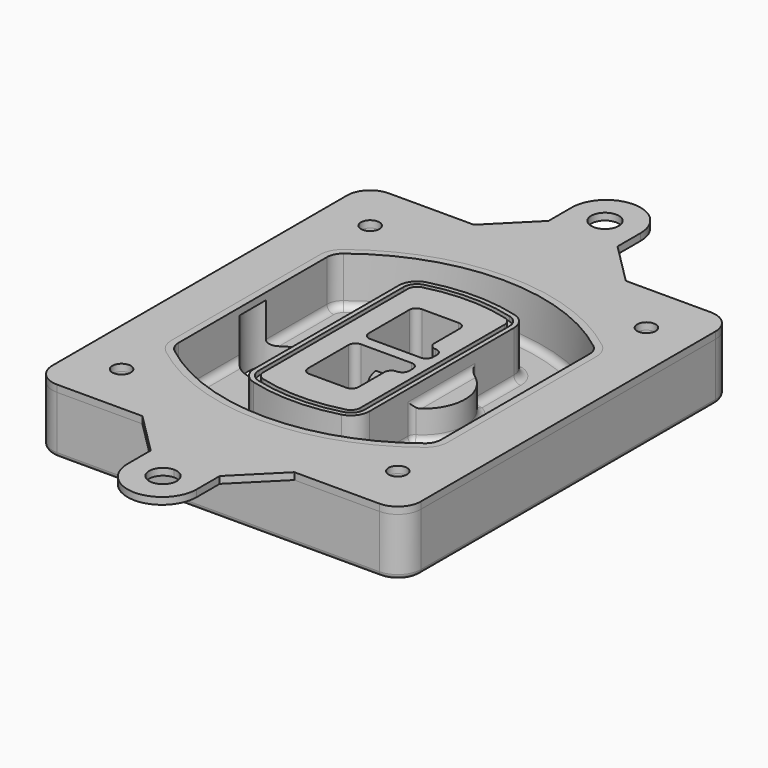
from build123d import *

# Parameters (mm, degrees)
F0_R      = 4
F1_DEPTH  = 25
F2_DEPTH  = 3
F3_DEPTH  = 18
F5_DEPTH  = 21
F6_DEPTH  = 2
F8_DEPTH  = 20
F9_DEPTH  = 16
F10_DEPTH = 25
F7_R      = 6
F7_R_2    = 4
F11_DEPTH = 6
F13_DEPTH = 9
F14_R     = 3
F15_R     = 2
F16_R     = 4
F17_DEPTH = 3


with BuildPart() as f1:
    # F0 (on Top) → F1 (new body)
    with BuildSketch(Plane.XY):
        with BuildLine():
            ThreePointArc((-80, -80), (-77.0710678119, -87.0710678119), (-70, -90))
            Line((-70, -90), (70, -90))
            ThreePointArc((70, -90), (77.0710678119, -87.0710678119), (80, -80))
            Line((80, -80), (80, 80))
            ThreePointArc((80, 80), (77.0710678119, 87.0710678119), (70, 90))
            Line((70, 90), (-70, 90))
            ThreePointArc((-70, 90), (-77.0710678119, 87.0710678119), (-80, 80))
            Line((-80, 80), (-80, -80))
        make_face()
        with Locations((-60, -67.5)):
            Circle(F0_R, mode=Mode.SUBTRACT)
        with Locations((60, -67.5)):
            Circle(F0_R, mode=Mode.SUBTRACT)
        with Locations((-60, 67.5)):
            Circle(F0_R, mode=Mode.SUBTRACT)
        with BuildLine():
            ThreePointArc((-64, 40.2934422872), (-62.5820384798, 46.4328484224), (-58.6153846154, 51.3286200352))
            ThreePointArc((-58.6153846154, 51.3286200352), (0, 71.5), (58.6153846154, 51.3286200352))
            ThreePointArc((58.6153846154, 51.3286200352), (62.5820384798, 46.4328484224), (64, 40.2934422872))
            Line((64, 40.2934422872), (64, -40.2934422872))
            ThreePointArc((64, -40.2934422872), (62.5820384798, -46.4328484224), (58.6153846154, -51.3286200352))
            ThreePointArc((58.6153846154, -51.3286200352), (0, -71.5), (-58.6153846154, -51.3286200352))
            ThreePointArc((-58.6153846154, -51.3286200352), (-62.5820384798, -46.4328484224), (-64, -40.2934422872))
            Line((-64, -40.2934422872), (-64, 40.2934422872))
        make_face(mode=Mode.SUBTRACT)
        with Locations((60, 67.5)):
            Circle(F0_R, mode=Mode.SUBTRACT)
        with BuildLine():
            ThreePointArc((58.6153846154, 51.3286200352), (0, 71.5), (-58.6153846154, 51.3286200352))
            ThreePointArc((-58.6153846154, 51.3286200352), (-62.5820384798, 46.4328484224), (-64, 40.2934422872))
            Line((-64, 40.2934422872), (-64, -40.2934422872))
            ThreePointArc((-64, -40.2934422872), (-62.5820384798, -46.4328484224), (-58.6153846154, -51.3286200352))
            ThreePointArc((-58.6153846154, -51.3286200352), (0, -71.5), (58.6153846154, -51.3286200352))
            ThreePointArc((58.6153846154, -51.3286200352), (62.5820384798, -46.4328484224), (64, -40.2934422872))
            Line((64, -40.2934422872), (64, 40.2934422872))
            ThreePointArc((64, 40.2934422872), (62.5820384798, 46.4328484224), (58.6153846154, 51.3286200352))
        make_face()
        with BuildLine():
            Line((-60, -40.2934422872), (-60, 40.2934422872))
            ThreePointArc((-60, 40.2934422872), (-58.9871703427, 44.6787323838), (-56.1538461538, 48.1757121072))
            ThreePointArc((-56.1538461538, 48.1757121072), (0, 67.5), (56.1538461538, 48.1757121072))
            ThreePointArc((56.1538461538, 48.1757121072), (58.9871703427, 44.6787323838), (60, 40.2934422872))
            Line((60, 40.2934422872), (60, -40.2934422872))
            ThreePointArc((60, -40.2934422872), (58.9871703427, -44.6787323838), (56.1538461538, -48.1757121072))
            ThreePointArc((56.1538461538, -48.1757121072), (0, -67.5), (-56.1538461538, -48.1757121072))
            ThreePointArc((-56.1538461538, -48.1757121072), (-58.9871703427, -44.6787323838), (-60, -40.2934422872))
        make_face(mode=Mode.SUBTRACT)
        with BuildLine():
            ThreePointArc((-56.1538461538, 48.1757121072), (-58.9871703427, 44.6787323838), (-60, 40.2934422872))
            Line((-60, 40.2934422872), (-60, -40.2934422872))
            ThreePointArc((-60, -40.2934422872), (-58.9871703427, -44.6787323838), (-56.1538461538, -48.1757121072))
            ThreePointArc((-56.1538461538, -48.1757121072), (0, -67.5), (56.1538461538, -48.1757121072))
            ThreePointArc((56.1538461538, -48.1757121072), (58.9871703427, -44.6787323838), (60, -40.2934422872))
            Line((60, -40.2934422872), (60, 40.2934422872))
            ThreePointArc((60, 40.2934422872), (58.9871703427, 44.6787323838), (56.1538461538, 48.1757121072))
            ThreePointArc((56.1538461538, 48.1757121072), (0, 67.5), (-56.1538461538, 48.1757121072))
        make_face()
        with BuildLine():
            ThreePointArc((54.3076923077, 45.8110311612), (56.2910192399, 43.3631453548), (57, 40.2934422872))
            Line((57, 40.2934422872), (57, -40.2934422872))
            ThreePointArc((57, -40.2934422872), (56.2910192399, -43.3631453548), (54.3076923077, -45.8110311612))
            ThreePointArc((54.3076923077, -45.8110311612), (0, -64.5), (-54.3076923077, -45.8110311612))
            ThreePointArc((-54.3076923077, -45.8110311612), (-56.2910192399, -43.3631453548), (-57, -40.2934422872))
            Line((-57, -40.2934422872), (-57, 40.2934422872))
            ThreePointArc((-57, 40.2934422872), (-56.2910192399, 43.3631453548), (-54.3076923077, 45.8110311612))
            ThreePointArc((-54.3076923077, 45.8110311612), (0, 64.5), (54.3076923077, 45.8110311612))
        make_face(mode=Mode.SUBTRACT)
        with BuildLine():
            Line((57, -40.2934422872), (57, 40.2934422872))
            ThreePointArc((57, 40.2934422872), (56.2910192399, 43.3631453548), (54.3076923077, 45.8110311612))
            ThreePointArc((54.3076923077, 45.8110311612), (0, 64.5), (-54.3076923077, 45.8110311612))
            ThreePointArc((-54.3076923077, 45.8110311612), (-56.2910192399, 43.3631453548), (-57, 40.2934422872))
            Line((-57, 40.2934422872), (-57, -40.2934422872))
            ThreePointArc((-57, -40.2934422872), (-56.2910192399, -43.3631453548), (-54.3076923077, -45.8110311612))
            ThreePointArc((-54.3076923077, -45.8110311612), (0, -64.5), (54.3076923077, -45.8110311612))
            ThreePointArc((54.3076923077, -45.8110311612), (56.2910192399, -43.3631453548), (57, -40.2934422872))
        make_face()
    extrude(amount=-F1_DEPTH)

    # F0 (on Top) → F2 (join)
    with BuildSketch(Plane.XY):
        with BuildLine():
            ThreePointArc((-56.1538461538, 48.1757121072), (-58.9871703427, 44.6787323838), (-60, 40.2934422872))
            Line((-60, 40.2934422872), (-60, -40.2934422872))
            ThreePointArc((-60, -40.2934422872), (-58.9871703427, -44.6787323838), (-56.1538461538, -48.1757121072))
            ThreePointArc((-56.1538461538, -48.1757121072), (0, -67.5), (56.1538461538, -48.1757121072))
            ThreePointArc((56.1538461538, -48.1757121072), (58.9871703427, -44.6787323838), (60, -40.2934422872))
            Line((60, -40.2934422872), (60, 40.2934422872))
            ThreePointArc((60, 40.2934422872), (58.9871703427, 44.6787323838), (56.1538461538, 48.1757121072))
            ThreePointArc((56.1538461538, 48.1757121072), (0, 67.5), (-56.1538461538, 48.1757121072))
        make_face()
        with BuildLine():
            ThreePointArc((54.3076923077, 45.8110311612), (56.2910192399, 43.3631453548), (57, 40.2934422872))
            Line((57, 40.2934422872), (57, -40.2934422872))
            ThreePointArc((57, -40.2934422872), (56.2910192399, -43.3631453548), (54.3076923077, -45.8110311612))
            ThreePointArc((54.3076923077, -45.8110311612), (0, -64.5), (-54.3076923077, -45.8110311612))
            ThreePointArc((-54.3076923077, -45.8110311612), (-56.2910192399, -43.3631453548), (-57, -40.2934422872))
            Line((-57, -40.2934422872), (-57, 40.2934422872))
            ThreePointArc((-57, 40.2934422872), (-56.2910192399, 43.3631453548), (-54.3076923077, 45.8110311612))
            ThreePointArc((-54.3076923077, 45.8110311612), (0, 64.5), (54.3076923077, 45.8110311612))
        make_face(mode=Mode.SUBTRACT)
    extrude(amount=F2_DEPTH)

    # F0 (on Top) → F3 (cut)
    with BuildSketch(Plane.XY):
        with BuildLine():
            Line((57, -40.2934422872), (57, 40.2934422872))
            ThreePointArc((57, 40.2934422872), (56.2910192399, 43.3631453548), (54.3076923077, 45.8110311612))
            ThreePointArc((54.3076923077, 45.8110311612), (0, 64.5), (-54.3076923077, 45.8110311612))
            ThreePointArc((-54.3076923077, 45.8110311612), (-56.2910192399, 43.3631453548), (-57, 40.2934422872))
            Line((-57, 40.2934422872), (-57, -40.2934422872))
            ThreePointArc((-57, -40.2934422872), (-56.2910192399, -43.3631453548), (-54.3076923077, -45.8110311612))
            ThreePointArc((-54.3076923077, -45.8110311612), (0, -64.5), (54.3076923077, -45.8110311612))
            ThreePointArc((54.3076923077, -45.8110311612), (56.2910192399, -43.3631453548), (57, -40.2934422872))
        make_face()
    extrude(amount=-F3_DEPTH, mode=Mode.SUBTRACT)

    # F4 (on face) → F5 (join, through all)
    with BuildSketch(Plane.XY.offset(3)):
        with BuildLine():
            ThreePointArc((-25, -39.2465276821), (-23.3511545998, -44.1109737193), (-19.0842911877, -46.9702398883))
            ThreePointArc((-19.0842911877, -46.9702398883), (0, -49.5), (19.0842911877, -46.9702398883))
            ThreePointArc((19.0842911877, -46.9702398883), (23.3511545998, -44.1109737193), (25, -39.2465276821))
            Line((25, -39.2465276821), (25, 39.2465276821))
            ThreePointArc((25, 39.2465276821), (23.3511545998, 44.1109737193), (19.0842911877, 46.9702398883))
            ThreePointArc((19.0842911877, 46.9702398883), (0, 49.5), (-19.0842911877, 46.9702398883))
            ThreePointArc((-19.0842911877, 46.9702398883), (-23.3511545998, 44.1109737193), (-25, 39.2465276821))
            Line((-25, 39.2465276821), (-25, -39.2465276821))
        make_face()
        with BuildLine():
            ThreePointArc((18.5632183908, 45.0393118368), (21.7633659499, 42.89486221), (23, 39.2465276821))
            Line((23, 39.2465276821), (23, -39.2465276821))
            ThreePointArc((23, -39.2465276821), (21.7633659499, -42.89486221), (18.5632183908, -45.0393118368))
            ThreePointArc((18.5632183908, -45.0393118368), (0, -47.5), (-18.5632183908, -45.0393118368))
            ThreePointArc((-18.5632183908, -45.0393118368), (-21.7633659499, -42.89486221), (-23, -39.2465276821))
            Line((-23, -39.2465276821), (-23, 39.2465276821))
            ThreePointArc((-23, 39.2465276821), (-21.7633659499, 42.89486221), (-18.5632183908, 45.0393118368))
            ThreePointArc((-18.5632183908, 45.0393118368), (0, 47.5), (18.5632183908, 45.0393118368))
        make_face(mode=Mode.SUBTRACT)
        with BuildLine():
            Line((23, -39.2465276821), (23, 39.2465276821))
            ThreePointArc((23, 39.2465276821), (21.7633659499, 42.89486221), (18.5632183908, 45.0393118368))
            ThreePointArc((18.5632183908, 45.0393118368), (0, 47.5), (-18.5632183908, 45.0393118368))
            ThreePointArc((-18.5632183908, 45.0393118368), (-21.7633659499, 42.89486221), (-23, 39.2465276821))
            Line((-23, 39.2465276821), (-23, -39.2465276821))
            ThreePointArc((-23, -39.2465276821), (-21.7633659499, -42.89486221), (-18.5632183908, -45.0393118368))
            ThreePointArc((-18.5632183908, -45.0393118368), (0, -47.5), (18.5632183908, -45.0393118368))
            ThreePointArc((18.5632183908, -45.0393118368), (21.7633659499, -42.89486221), (23, -39.2465276821))
        make_face()
        with BuildLine():
            ThreePointArc((18.0421455939, 43.1083837852), (20.1755772999, 41.6787507007), (21, 39.2465276821))
            Line((21, 39.2465276821), (21, -39.2465276821))
            ThreePointArc((21, -39.2465276821), (20.1755772999, -41.6787507007), (18.0421455939, -43.1083837852))
            ThreePointArc((18.0421455939, -43.1083837852), (0, -45.5), (-18.0421455939, -43.1083837852))
            ThreePointArc((-18.0421455939, -43.1083837852), (-20.1755772999, -41.6787507007), (-21, -39.2465276821))
            Line((-21, -39.2465276821), (-21, 39.2465276821))
            ThreePointArc((-21, 39.2465276821), (-20.1755772999, 41.6787507007), (-18.0421455939, 43.1083837852))
            ThreePointArc((-18.0421455939, 43.1083837852), (0, 45.5), (18.0421455939, 43.1083837852))
        make_face(mode=Mode.SUBTRACT)
        with BuildLine():
            Line((21, -39.2465276821), (21, 39.2465276821))
            ThreePointArc((21, 39.2465276821), (20.1755772999, 41.6787507007), (18.0421455939, 43.1083837852))
            ThreePointArc((18.0421455939, 43.1083837852), (0, 45.5), (-18.0421455939, 43.1083837852))
            ThreePointArc((-18.0421455939, 43.1083837852), (-20.1755772999, 41.6787507007), (-21, 39.2465276821))
            Line((-21, 39.2465276821), (-21, -39.2465276821))
            ThreePointArc((-21, -39.2465276821), (-20.1755772999, -41.6787507007), (-18.0421455939, -43.1083837852))
            ThreePointArc((-18.0421455939, -43.1083837852), (0, -45.5), (18.0421455939, -43.1083837852))
            ThreePointArc((18.0421455939, -43.1083837852), (20.1755772999, -41.6787507007), (21, -39.2465276821))
        make_face()
        with BuildLine():
            Line((-8, -2.5), (14, -2.5))
            ThreePointArc((14, -2.5), (16.1213203436, -3.3786796564), (17, -5.5))
            Line((17, -5.5), (17, -7.5))
            ThreePointArc((17, -7.5), (16.1213203436, -9.6213203436), (14, -10.5))
            ThreePointArc((14, -10.5), (11.8786796564, -11.3786796564), (11, -13.5))
            Line((11, -13.5), (11, -27.5))
            ThreePointArc((11, -27.5), (10.1213203436, -29.6213203436), (8, -30.5))
            Line((8, -30.5), (-8, -30.5))
            ThreePointArc((-8, -30.5), (-10.1213203436, -29.6213203436), (-11, -27.5))
            Line((-11, -27.5), (-11, -5.5))
            ThreePointArc((-11, -5.5), (-10.1213203436, -3.3786796564), (-8, -2.5))
        make_face(mode=Mode.SUBTRACT)
        with BuildLine():
            ThreePointArc((-8, 2.5), (-10.1213203436, 3.3786796564), (-11, 5.5))
            Line((-11, 5.5), (-11, 27.5))
            ThreePointArc((-11, 27.5), (-10.1213203436, 29.6213203436), (-8, 30.5))
            Line((-8, 30.5), (8, 30.5))
            ThreePointArc((8, 30.5), (10.1213203436, 29.6213203436), (11, 27.5))
            Line((11, 27.5), (11, 13.5))
            ThreePointArc((11, 13.5), (11.8786796564, 11.3786796564), (14, 10.5))
            ThreePointArc((14, 10.5), (16.1213203436, 9.6213203436), (17, 7.5))
            Line((17, 7.5), (17, 5.5))
            ThreePointArc((17, 5.5), (16.1213203436, 3.3786796564), (14, 2.5))
            Line((14, 2.5), (-8, 2.5))
        make_face(mode=Mode.SUBTRACT)
    extrude(amount=-F5_DEPTH)

    # F4 (on face) → F6 (cut)
    with BuildSketch(Plane.XY.offset(3)):
        with BuildLine():
            Line((23, -39.2465276821), (23, 39.2465276821))
            ThreePointArc((23, 39.2465276821), (21.7633659499, 42.89486221), (18.5632183908, 45.0393118368))
            ThreePointArc((18.5632183908, 45.0393118368), (0, 47.5), (-18.5632183908, 45.0393118368))
            ThreePointArc((-18.5632183908, 45.0393118368), (-21.7633659499, 42.89486221), (-23, 39.2465276821))
            Line((-23, 39.2465276821), (-23, -39.2465276821))
            ThreePointArc((-23, -39.2465276821), (-21.7633659499, -42.89486221), (-18.5632183908, -45.0393118368))
            ThreePointArc((-18.5632183908, -45.0393118368), (0, -47.5), (18.5632183908, -45.0393118368))
            ThreePointArc((18.5632183908, -45.0393118368), (21.7633659499, -42.89486221), (23, -39.2465276821))
        make_face()
        with BuildLine():
            ThreePointArc((18.0421455939, 43.1083837852), (20.1755772999, 41.6787507007), (21, 39.2465276821))
            Line((21, 39.2465276821), (21, -39.2465276821))
            ThreePointArc((21, -39.2465276821), (20.1755772999, -41.6787507007), (18.0421455939, -43.1083837852))
            ThreePointArc((18.0421455939, -43.1083837852), (0, -45.5), (-18.0421455939, -43.1083837852))
            ThreePointArc((-18.0421455939, -43.1083837852), (-20.1755772999, -41.6787507007), (-21, -39.2465276821))
            Line((-21, -39.2465276821), (-21, 39.2465276821))
            ThreePointArc((-21, 39.2465276821), (-20.1755772999, 41.6787507007), (-18.0421455939, 43.1083837852))
            ThreePointArc((-18.0421455939, 43.1083837852), (0, 45.5), (18.0421455939, 43.1083837852))
        make_face(mode=Mode.SUBTRACT)
    extrude(amount=-F6_DEPTH, mode=Mode.SUBTRACT)

    # F7 (on face) → F8 (join)
    with BuildSketch(Plane(origin=(0, 0, -25), x_dir=(1, 0, 0), z_dir=(0, 0, -1))):
        with BuildLine():
            ThreePointArc((3.28842436, 0), (16.7567035675, 13.4682792075), (30.224982775, 0))
            Line((30.224982775, 0), (35.224982775, 0))
            ThreePointArc((35.224982775, 0), (16.7567035675, 18.4682792075), (-1.71157564, 0))
            Line((-1.71157564, 0), (3.28842436, 0))
        make_face()
        with BuildLine():
            Line((3.28842436, 0), (30.224982775, 0))
            ThreePointArc((30.224982775, 0), (16.7567035675, 13.4682792075), (3.28842436, 0))
        make_face()
        with BuildLine():
            ThreePointArc((3.28842436, 0), (16.7567035675, -13.4682792075), (30.224982775, 0))
            Line((30.224982775, 0), (3.28842436, 0))
        make_face()
        with BuildLine():
            Line((35.224982775, 0), (30.224982775, 0))
            ThreePointArc((30.224982775, 0), (16.7567035675, -13.4682792075), (3.28842436, 0))
            Line((3.28842436, 0), (-1.71157564, 0))
            ThreePointArc((-1.71157564, 0), (16.7567035675, -18.4682792075), (35.224982775, 0))
        make_face()
    extrude(amount=-F8_DEPTH)

    # F7 (on face) → F9 (cut)
    with BuildSketch(Plane(origin=(0, 0, -25), x_dir=(1, 0, 0), z_dir=(0, 0, -1))):
        with BuildLine():
            Line((3.28842436, 0), (30.224982775, 0))
            ThreePointArc((30.224982775, 0), (16.7567035675, 13.4682792075), (3.28842436, 0))
        make_face()
        with BuildLine():
            ThreePointArc((3.28842436, 0), (16.7567035675, -13.4682792075), (30.224982775, 0))
            Line((30.224982775, 0), (3.28842436, 0))
        make_face()
    extrude(amount=-F9_DEPTH, mode=Mode.SUBTRACT)

    # F7 (on face) → F10 (cut)
    with BuildSketch(Plane(origin=(0, 0, -25), x_dir=(1, 0, 0), z_dir=(0, 0, -1))):
        with BuildLine():
            Line((-59.0318229325, 0), (-32.0952645175, 0))
            ThreePointArc((-32.0952645175, 0), (-45.563543725, 13.4682792075), (-59.0318229325, 0))
        make_face()
        with BuildLine():
            ThreePointArc((-59.0318229325, 0), (-45.563543725, -13.4682792075), (-32.0952645175, 0))
            Line((-32.0952645175, 0), (-59.0318229325, 0))
        make_face()
    extrude(amount=-F10_DEPTH, mode=Mode.SUBTRACT)

    # F7 (on face) → F11 (cut)
    with BuildSketch(Plane(origin=(0, 0, -25), x_dir=(1, 0, 0), z_dir=(0, 0, -1))):
        with Locations((60, -67.5)):
            Circle(F7_R)
        with Locations((60, -67.5)):
            Circle(F7_R_2, mode=Mode.SUBTRACT)
        with Locations((60, -67.5)):
            Circle(F7_R)
        with Locations((60, -67.5)):
            Circle(F7_R_2, mode=Mode.SUBTRACT)
        with Locations((-60, -67.5)):
            Circle(F7_R)
        with Locations((-60, -67.5)):
            Circle(F7_R_2, mode=Mode.SUBTRACT)
        with Locations((-60, -67.5)):
            Circle(F7_R)
        with Locations((-60, -67.5)):
            Circle(F7_R_2, mode=Mode.SUBTRACT)
        with Locations((-60, 67.5)):
            Circle(F7_R)
        with Locations((-60, 67.5)):
            Circle(F7_R_2, mode=Mode.SUBTRACT)
        with Locations((-60, 67.5)):
            Circle(F7_R)
        with Locations((-60, 67.5)):
            Circle(F7_R_2, mode=Mode.SUBTRACT)
        with Locations((60, 67.5)):
            Circle(F7_R)
        with Locations((60, 67.5)):
            Circle(F7_R_2, mode=Mode.SUBTRACT)
        with Locations((60, 67.5)):
            Circle(F7_R)
        with Locations((60, 67.5)):
            Circle(F7_R_2, mode=Mode.SUBTRACT)
    extrude(amount=-F11_DEPTH, mode=Mode.SUBTRACT)

    # F12 (on face) → F13 (cut, through all)
    with BuildSketch(Plane(origin=(0, 0, -9), x_dir=(1, 0, 0), z_dir=(0, 0, -1))):
        with BuildLine():
            Line((11, 13.5), (11, 17.5481537753))
            ThreePointArc((11, 17.5481537753), (2.5696536419, 11.8239143813), (-1.5415842455, 2.5))
            Line((-1.5415842455, 2.5), (3.5224848595, 2.5))
            ThreePointArc((3.5224848595, 2.5), (6.1857188154, 8.3455872281), (11.2536447004, 12.2927168648))
            ThreePointArc((11.2536447004, 12.2927168648), (11.0640958889, 12.8831798879), (11, 13.5))
        make_face()
        with BuildLine():
            ThreePointArc((11.2536447004, -12.2927168648), (6.1857188154, -8.3455872281), (3.5224848595, -2.5))
            Line((3.5224848595, -2.5), (-1.5415842455, -2.5))
            ThreePointArc((-1.5415842455, -2.5), (2.5696536419, -11.8239143813), (11, -17.5481537753))
            Line((11, -17.5481537753), (11, -13.5))
            ThreePointArc((11, -13.5), (11.0640958889, -12.8831798879), (11.2536447004, -12.2927168648))
        make_face()
        with BuildLine():
            ThreePointArc((11.2536447004, 12.2927168648), (6.1857188154, 8.3455872281), (3.5224848595, 2.5))
            Line((3.5224848595, 2.5), (14, 2.5))
            ThreePointArc((14, 2.5), (16.1213203436, 3.3786796564), (17, 5.5))
            Line((17, 5.5), (17, 7.5))
            ThreePointArc((17, 7.5), (16.1213203436, 9.6213203436), (14, 10.5))
            ThreePointArc((14, 10.5), (12.3601599782, 10.9878446101), (11.2536447004, 12.2927168648))
        make_face()
        with BuildLine():
            Line((14, -2.5), (3.5224848595, -2.5))
            ThreePointArc((3.5224848595, -2.5), (6.1857188154, -8.3455872281), (11.2536447004, -12.2927168648))
            ThreePointArc((11.2536447004, -12.2927168648), (12.3601599782, -10.9878446101), (14, -10.5))
            ThreePointArc((14, -10.5), (16.1213203436, -9.6213203436), (17, -7.5))
            Line((17, -7.5), (17, -5.5))
            ThreePointArc((17, -5.5), (16.1213203436, -3.3786796564), (14, -2.5))
        make_face()
    extrude(amount=F13_DEPTH, mode=Mode.SUBTRACT)

    # F14
    f14_edges = [f1.edges().sort_by_distance(p)[0] for p in [
        (-57, -23.703476, -18),
        (-57, 23.703476, -18),
        (25, 0, -5),
        (25, 16.526506, -11.5),
        (25, -16.526506, -11.5),
        (25, -27.886517, -18),
        (35.224983, 0, -18),
    ]]
    fillet(f14_edges, radius=F14_R)

    # F15
    f15_edges = [f1.edges().sort_by_distance(p)[0] for p in [
        (0, -90, -25),
    ]]
    fillet(f15_edges, radius=F15_R)


with BuildPart() as f17:
    # F16 (on face) → F17 (new body, through all)
    with BuildSketch(Plane.XY):
        with BuildLine():
            Line((-80, 80), (-80, 0))
            Line((-80, 0), (-60, 0))
            Line((-60, 0), (-60, 40.2934422872))
            ThreePointArc((-60, 40.2934422872), (-58.9871703427, 44.6787323838), (-56.1538461538, 48.1757121072))
            ThreePointArc((-56.1538461538, 48.1757121072), (0, 67.5), (56.1538461538, 48.1757121072))
            ThreePointArc((56.1538461538, 48.1757121072), (58.9871703427, 44.6787323838), (60, 40.2934422872))
            Line((60, 40.2934422872), (60, 0))
            Line((60, 0), (80, 0))
            Line((80, 0), (80, 80))
            ThreePointArc((80, 80), (77.0710678119, 87.0710678119), (70, 90))
            Line((70, 90), (33.0431571461, 90))
            Line((33.0431571461, 90), (0, 90))
            Line((0, 90), (-32.9469216252, 90))
            Line((-32.9469216252, 90), (-70, 90))
            ThreePointArc((-70, 90), (-77.0710678119, 87.0710678119), (-80, 80))
        make_face()
        with Locations((-60, 67.5)):
            Circle(F16_R, mode=Mode.SUBTRACT)
        with Locations((60, 67.5)):
            Circle(F16_R, mode=Mode.SUBTRACT)
        with BuildLine():
            Line((-60, 0), (-80, 0))
            Line((-80, 0), (-80, -80))
            ThreePointArc((-80, -80), (-77.0710678119, -87.0710678119), (-70, -90))
            Line((-70, -90), (-32.9469216252, -90))
            Line((-32.9469216252, -90), (0, -90))
            Line((0, -90), (33.0431571461, -90))
            Line((33.0431571461, -90), (70, -90))
            ThreePointArc((70, -90), (77.0710678119, -87.0710678119), (80, -80))
            Line((80, -80), (80, 0))
            Line((80, 0), (60, 0))
            Line((60, 0), (60, -40.2934422872))
            ThreePointArc((60, -40.2934422872), (58.9871703427, -44.6787323838), (56.1538461538, -48.1757121072))
            ThreePointArc((56.1538461538, -48.1757121072), (0, -67.5), (-56.1538461538, -48.1757121072))
            ThreePointArc((-56.1538461538, -48.1757121072), (-58.9871703427, -44.6787323838), (-60, -40.2934422872))
            Line((-60, -40.2934422872), (-60, 0))
        make_face()
        with Locations((-60, -67.5)):
            Circle(F16_R, mode=Mode.SUBTRACT)
        with Locations((60, -67.5)):
            Circle(F16_R, mode=Mode.SUBTRACT)
        with BuildLine():
            Line((0, -90), (-32.9469216252, -90))
            Line((-32.9469216252, -90), (-14.9469216252, -108))
            Line((-14.9469216252, -108), (-14.9469216252, -120))
            ThreePointArc((-14.9469216252, -120), (-0.2296233798, -135.5429903215), (15.0431571461, -120.5454708338))
            Line((15.0431571461, -120.5454708338), (15.0431571461, -108))
            Line((15.0431571461, -108), (33.0431571461, -90))
            Line((33.0431571461, -90), (0, -90))
        make_face()
        with BuildLine():
            ThreePointArc((6, -120), (-4.2426406871, -124.2426406871), (0, -114))
            ThreePointArc((0, -114), (4.2426406871, -115.7573593129), (6, -120))
        make_face(mode=Mode.SUBTRACT)
        with BuildLine():
            Line((-14.9469216252, 108), (-32.9469216252, 90))
            Line((-32.9469216252, 90), (0, 90))
            Line((0, 90), (33.0431571461, 90))
            Line((33.0431571461, 90), (15.0431571461, 108))
            Line((15.0431571461, 108), (15.0431571461, 120.5454708338))
            ThreePointArc((15.0431571461, 120.5454708338), (-0.2296233798, 135.5429903215), (-14.9469216252, 120))
            Line((-14.9469216252, 120), (-14.9469216252, 108))
        make_face()
        with BuildLine():
            ThreePointArc((6, 120), (4.2426406871, 115.7573593129), (0, 114))
            ThreePointArc((0, 114), (-4.2426406871, 124.2426406871), (6, 120))
        make_face(mode=Mode.SUBTRACT)
    extrude(amount=F17_DEPTH)


solid = Compound([f1.part, f17.part])
